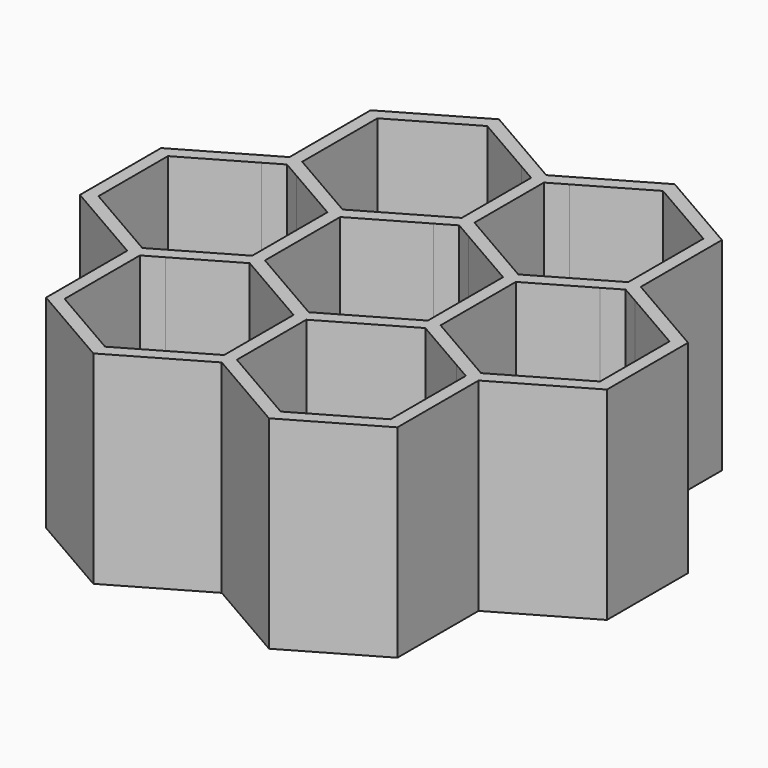
from build123d import *

# Parameters (mm, degrees)
F1_DEPTH = 50.8
F2_DEPTH = 3.175


with BuildPart() as f1:
    # F0 (on Top) → F1 (new body)
    with BuildSketch(Plane.XY):
        Polygon((-42.419291, 22.643037), (-40.819091, 23.566913), (-43.994091, 25.4), (-65.991136, 12.7), (-65.991136, -12.7), (-43.994091, -25.4), (-40.819091, -23.566913), (-42.419291, -22.643037), (-46.8187, -20.103037), (-62.816136, -10.866913), (-62.816136, 10.866913), (-46.8187, 20.103037), align=None)
        Polygon((-1.6002, 48.057702), (0, 47.133826), (0, 50.8), (-21.997045, 63.5), (-43.994091, 50.8), (-43.994091, 25.4), (-40.819091, 23.566913), (-40.819091, 25.414665), (-40.819091, 30.494665), (-40.819091, 48.966913), (-21.997045, 59.833826), (-5.999609, 50.597702), align=None)
        Polygon((0, 50.8), (0, 47.133826), (1.6002, 48.057702), (5.999609, 50.597702), (21.997045, 59.833826), (40.819091, 48.966913), (40.819091, 30.494665), (40.819091, 28.646913), (40.819091, 25.414665), (40.819091, 23.566913), (43.994091, 25.4), (43.994091, 50.8), (21.997045, 63.5), align=None)
        Polygon((42.419291, -22.643037), (40.819091, -23.566913), (43.994091, -25.4), (65.991136, -12.7), (65.991136, 12.7), (43.994091, 25.4), (40.819091, 23.566913), (42.419291, 22.643037), (46.8187, 20.103037), (62.816136, 10.866913), (62.816136, -10.866913), (46.8187, -20.103037), align=None)
        Polygon((43.994091, -25.4), (40.819091, -23.566913), (40.819091, -25.414665), (40.819091, -30.494665), (40.819091, -48.966913), (21.997045, -59.833826), (5.999609, -50.597702), (1.6002, -48.057702), (0, -47.133826), (0, -50.8), (21.997045, -63.5), (43.994091, -50.8), align=None)
        Polygon((-40.819091, -25.4), (-40.819091, -23.566913), (-43.994091, -25.4), (-43.994091, -50.8), (-21.997045, -63.5), (0, -50.8), (0, -47.133826), (-1.6002, -48.057702), (-4.399409, -49.673826), (-21.997045, -59.833826), (-40.819091, -48.966913), (-40.819091, -30.48), (-40.819091, -25.414665), align=None)
        Polygon((-21.997045, -12.7), (-21.997045, 12.7), (-40.819091, 23.566913), (-42.419291, 22.643037), (-38.019881, 20.103037), (-23.597245, 11.776124), (-23.597245, -11.776124), (-38.019881, -20.103037), (-42.419291, -22.643037), (-40.819091, -23.566913), align=None)
        Polygon((-21.997045, 12.7), (0, 25.4), (0, 47.133826), (-1.6002, 48.057702), (-1.6002, 42.977702), (-1.6002, 26.323876), (-21.997045, 14.547752), (-36.419681, 22.874665), (-40.819091, 25.414665), (-40.819091, 23.566913), align=None)
        Polygon((21.997045, 12.7), (0, 25.4), (0, 23.552248), (4.399409, 21.012248), (20.396845, 11.776124), (20.396845, -11.776124), (21.997045, -12.7), align=None)
        Polygon((0, -25.4), (-21.997045, -12.7), (-40.819091, -23.566913), (-40.819091, -25.4), (-36.413345, -22.871006), (-21.997045, -14.547752), (-1.6002, -26.323876), (-1.6002, -42.977702), (-1.6002, -48.057702), (0, -47.133826), align=None)
        Polygon((21.997045, -14.547752), (21.997045, -12.7), (0, -25.4), (1.6002, -26.323876), align=None)
        Polygon((0, 47.133826), (0, 25.4), (21.997045, 12.7), (36.419681, 21.026913), (40.819091, 23.566913), (40.819091, 25.414665), (36.419681, 22.874665), (21.997045, 14.547752), (1.6002, 26.323876), (1.6002, 42.977702), (1.6002, 48.057702), align=None)
        Polygon((36.419681, 21.026913), (21.997045, 12.7), (21.997045, -12.7), (40.819091, -23.566913), (42.419291, -22.643037), (38.019881, -20.103037), (23.597245, -11.776124), (23.597245, 11.776124), (38.019881, 20.103037), (42.419291, 22.643037), (40.819091, 23.566913), align=None)
        Polygon((0, 23.552248), (0, 25.4), (-21.997045, 12.7), (-20.396845, 11.776124), (-4.399409, 21.012248), align=None)
        Polygon((40.819091, -23.566913), (21.997045, -12.7), (21.997045, -14.547752), (36.419681, -22.874665), (40.819091, -25.414665), align=None)
        Polygon((1.6002, -26.323876), (0, -25.4), (0, -47.133826), (1.6002, -48.057702), (1.6002, -42.977702), align=None)
        Polygon((-20.396845, 11.776124), (-21.997045, 12.7), (-21.997045, -12.7), (0, -25.4), (0, -23.552248), (-4.399409, -21.012248), (-20.396845, -11.776124), align=None)
        Polygon((0, -25.4), (21.997045, -12.7), (20.396845, -11.776124), (4.399409, -21.012248), (0, -23.552248), align=None)
    extrude(amount=F1_DEPTH)

    # F0 (on Top) → F2 (join)
    with BuildSketch(Plane.XY):
        Polygon((-1.6002, 42.977702), (-5.999609, 50.597702), (-21.997045, 59.833826), (-40.819091, 48.966913), (-40.819091, 30.494665), (-36.419681, 22.874665), (-21.997045, 14.547752), (-1.6002, 26.323876), align=None)
        Polygon((-38.019881, 20.103037), (-46.8187, 20.103037), (-62.816136, 10.866913), (-62.816136, -10.866913), (-46.8187, -20.103037), (-38.019881, -20.103037), (-23.597245, -11.776124), (-23.597245, 11.776124), align=None)
        Polygon((-4.399409, 21.012248), (-20.396845, 11.776124), (-20.396845, -11.776124), (-4.399409, -21.012248), (4.399409, -21.012248), (20.396845, -11.776124), (20.396845, 11.776124), (4.399409, 21.012248), align=None)
        Polygon((21.997045, 59.833826), (5.999609, 50.597702), (1.6002, 42.977702), (1.6002, 26.323876), (21.997045, 14.547752), (36.419681, 22.874665), (40.819091, 30.494665), (40.819091, 48.966913), align=None)
        Polygon((38.019881, -20.103037), (46.8187, -20.103037), (62.816136, -10.866913), (62.816136, 10.866913), (46.8187, 20.103037), (38.019881, 20.103037), (23.597245, 11.776124), (23.597245, -11.776124), align=None)
        Polygon((36.419681, -22.874665), (21.997045, -14.547752), (1.6002, -26.323876), (1.6002, -42.977702), (5.999609, -50.597702), (21.997045, -59.833826), (40.819091, -48.966913), (40.819091, -30.494665), align=None)
        Polygon((-21.997045, -14.547752), (-36.413345, -22.871006), (-40.819091, -30.48), (-40.819091, -48.966913), (-21.997045, -59.833826), (-4.399409, -49.673826), (-1.6002, -42.977702), (-1.6002, -26.323876), align=None)
        Polygon((0, 23.552248), (0, 25.4), (-21.997045, 12.7), (-20.396845, 11.776124), (-4.399409, 21.012248), align=None)
    extrude(amount=F2_DEPTH)


solid = f1.part
